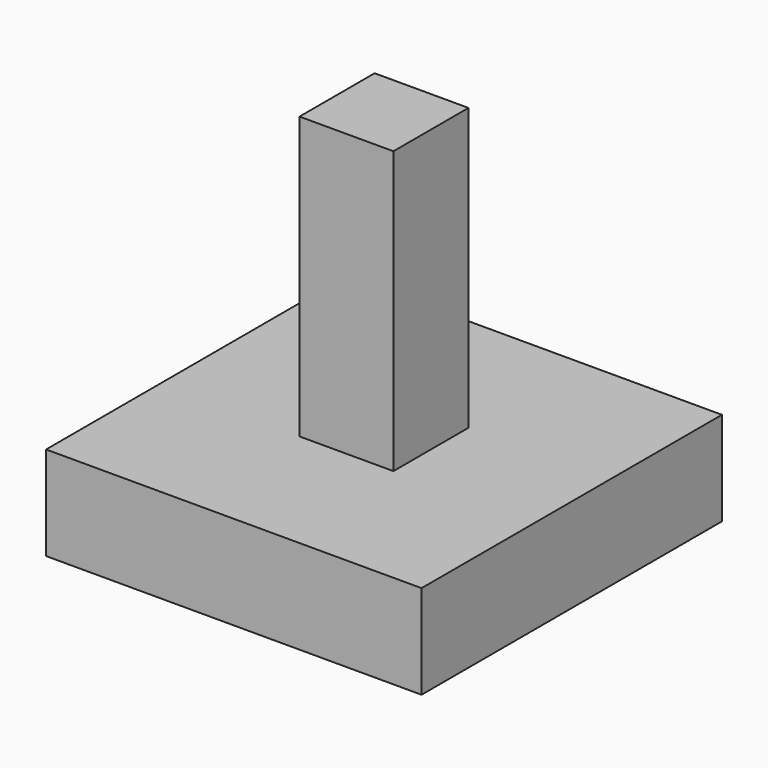
from build123d import *

# Parameters (mm, degrees)
F0_W     = 50.8
F0_H     = 50.8
F1_DEPTH = 12.7
F2_W     = 12.7
F2_H     = 12.7
F3_DEPTH = 50.8


with BuildPart() as f1:
    # F0 (on Top) → F1 (new body)
    with BuildSketch(Plane.XY):
        Rectangle(F0_W, F0_H)
    extrude(amount=F1_DEPTH)

    # F2 (on Top) → F3 (join)
    with BuildSketch(Plane.XY):
        Rectangle(F2_W, F2_H)
    extrude(amount=F3_DEPTH)


solid = f1.part
